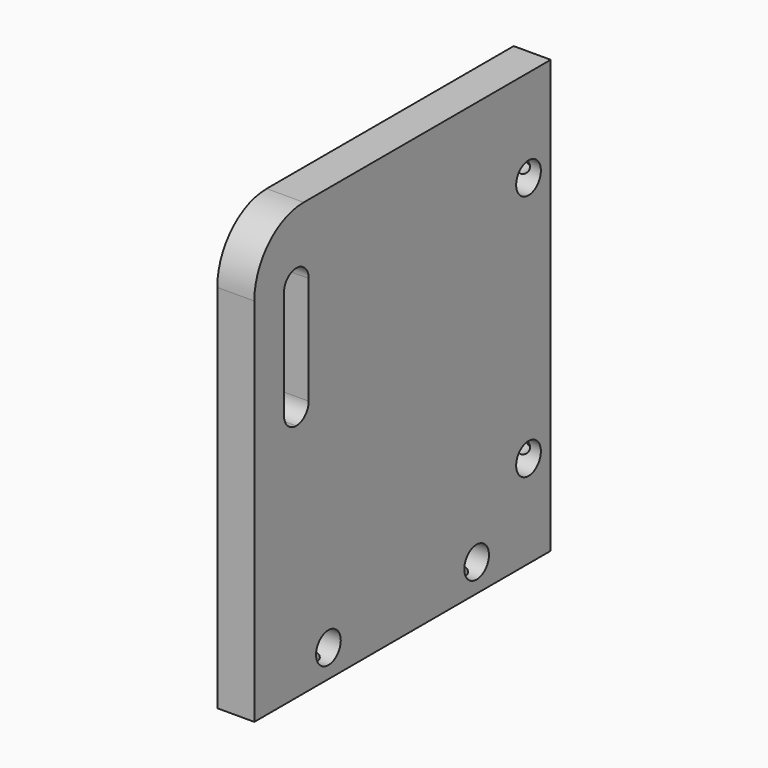
from build123d import *

# Parameters (mm, degrees)
F0_R     = 5
F1_DEPTH = 12
F2_R     = 2.5
F3_DEPTH = 25
F4_R     = 2.5
F5_DEPTH = 25


with BuildPart() as f1:
    # F0 (on Right) → F1 (new body)
    with BuildSketch(Plane.YZ):
        with BuildLine():
            Line((-60, 120), (-60, 0))
            Line((-60, 0), (60, 0))
            Line((60, 0), (60, 140))
            Line((60, 140), (-40, 140))
            ThreePointArc((-40, 140), (-54.142136, 134.142136), (-60, 120))
        make_face()
        with Locations((-30, 9)):
            Circle(F0_R, mode=Mode.SUBTRACT)
        with Locations((30, 9)):
            Circle(F0_R, mode=Mode.SUBTRACT)
        with Locations((51, 30)):
            Circle(F0_R, mode=Mode.SUBTRACT)
        with BuildLine():
            Line((-48, 82.5), (-48, 117.5))
            ThreePointArc((-48, 117.5), (-46.535534, 121.035534), (-43, 122.5))
            ThreePointArc((-43, 122.5), (-39.464466, 121.035534), (-38, 117.5))
            Line((-38, 117.5), (-38, 82.5))
            ThreePointArc((-38, 82.5), (-39.464466, 78.964466), (-43, 77.5))
            ThreePointArc((-43, 77.5), (-46.535534, 78.964466), (-48, 82.5))
        make_face(mode=Mode.SUBTRACT)
        with Locations((51, 110)):
            Circle(F0_R, mode=Mode.SUBTRACT)
    extrude(amount=F1_DEPTH)

    # F2 (on face) → F3 (cut)
    with BuildSketch(Plane(origin=(0, 0, 0), x_dir=(1, 0, 0), z_dir=(0, 0, -1))):
        with Locations((6, 0)):
            Circle(F2_R)
        with Locations((6, 30)):
            Circle(F2_R)
        with Locations((6, -30)):
            Circle(F2_R)
    extrude(amount=-F3_DEPTH, mode=Mode.SUBTRACT)

    # F4 (on face) → F5 (cut)
    with BuildSketch(Plane(origin=(0, 60, 0), x_dir=(-1, 0, 0), z_dir=(0, 1, 0))):
        with Locations((-6, 70)):
            Circle(F4_R)
        with Locations((-6, 110)):
            Circle(F4_R)
        with Locations((-6, 30)):
            Circle(F4_R)
    extrude(amount=-F5_DEPTH, mode=Mode.SUBTRACT)


solid = f1.part
